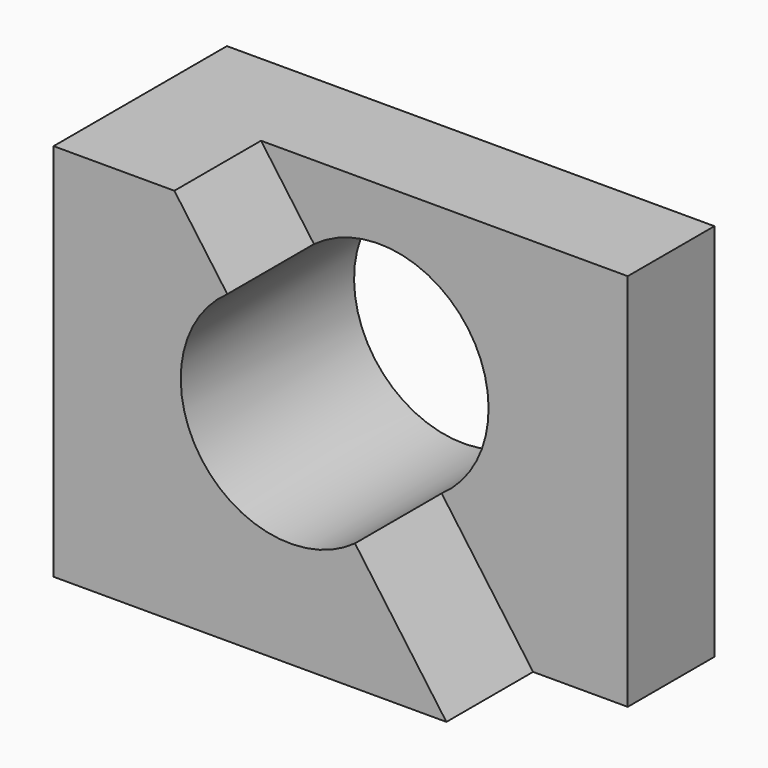
from build123d import *

# Parameters (mm, degrees)
F0_W     = 57.15
F0_H     = 44.45
F1_DEPTH = 25.4
F3_DEPTH = 12.7
F5_DEPTH = 25.401
F7_DEPTH = 25.4


with BuildPart() as f1:
    # F0 (on Front) → F1 (new body)
    with BuildSketch(Plane.XZ):
        with Locations((-26.4685656875, 7.2840715903)):
            Rectangle(F0_W, F0_H)
    extrude(amount=F1_DEPTH)

    # F2 (on face) → F3 (cut)
    with BuildSketch(Plane.XZ.offset(25.4)):
        Polygon((2.1064343125, 29.5090715903), (-40.8858768642, 29.5090715903), (-8.9903669432, -14.9409284097), (2.1064343125, -14.9409284097), align=None)
    extrude(amount=-F3_DEPTH, mode=Mode.SUBTRACT)

    # F4 (on face) → F5 (cut, through all)
    with BuildSketch(Plane.XZ.offset(25.4)):
        with BuildLine():
            Line((-19.7113687501, 0), (-34.6783755455, 20.8582165233))
            ThreePointArc((-34.6783755455, 20.8582165233), (-37.7301963147, 2.8693886556), (-19.7113687501, 0))
        make_face()
    extrude(amount=-F5_DEPTH, mode=Mode.SUBTRACT)

    # F6 (on face) → F7 (cut)
    with BuildSketch(Plane.XZ.offset(12.7)):
        with BuildLine():
            Line((-34.6783755455, 20.8582165233), (-19.7113687501, 0))
            ThreePointArc((-19.7113687501, 0), (-16.6145780918, 18.0210964288), (-34.6783755455, 20.8582165233))
        make_face()
    extrude(amount=-F7_DEPTH, mode=Mode.SUBTRACT)


solid = f1.part
